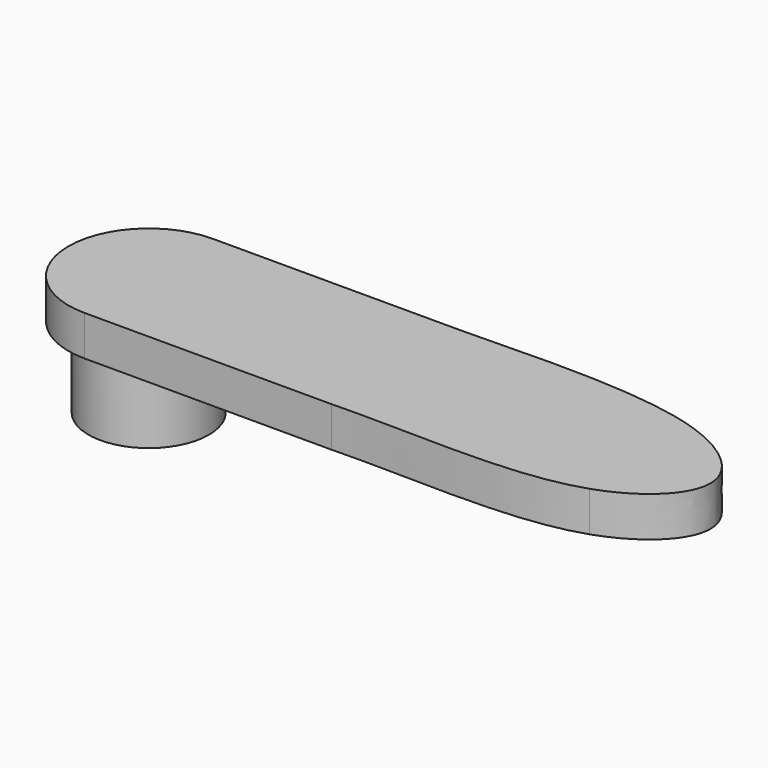
from build123d import *

# Parameters (mm, degrees)
F1_R     = 9.525
F2_DEPTH = 12.7
F3_DEPTH = 6.35
F5_DEPTH = 6.35


with BuildPart() as f2:
    # F1 (on Top) → F2 (new body)
    with BuildSketch(Plane.XY):
        Circle(F1_R)
    extrude(amount=F2_DEPTH)

    # F0 (on Top) → F3 (cut)
    with BuildSketch(Plane.XY):
        with BuildLine():
            Line((-1.27, 3.048), (-1.27, -3.048))
            ThreePointArc((-1.27, -3.048), (3.302, 0), (-1.27, 3.048))
        make_face()
    extrude(amount=F3_DEPTH, mode=Mode.SUBTRACT)

    # F4 (on face) → F5 (join)
    with BuildSketch(Plane.XY.offset(12.7)):
        with BuildLine():
            add(Edge.make_bspline(
                [(78.1465370953, 10.1726271266), (84.5997905756, 7.9514466281), (93.2222153183, 0.1048863469), (84.5556786618, -8.2715012229), (78.1465370953, -10.4653070771)],
                knots=[0.309244335, 0.309244335, 0.309244335, 0.309244335, 0.4993866301, 0.6908259731, 0.6908259731, 0.6908259731, 0.6908259731], degree=3))
            Line((78.1465370953, 10.1726271266), (78.1465370953, -10.4653070771))
        make_face()
        with BuildLine():
            ThreePointArc((0, 12.7), (8.9802561211, 8.9802561211), (12.7, 0))
            ThreePointArc((12.7, 0), (8.9802561211, -8.9802561211), (0, -12.7))
            Line((0, -12.7), (39.0732685476, -12.7))
            add(Edge.make_bspline(
                [(78.1465370953, -10.4653070771), (67.795790613, -14.0082976621), (52.0691349766, -12.3123618235), (39.0732685476, -12.7)],
                knots=[0.6908259731, 0.6908259731, 0.6908259731, 0.6908259731, 1, 1, 1, 1], degree=3))
            Line((78.1465370953, -10.4653070771), (78.1465370953, 10.1726271266))
            add(Edge.make_bspline(
                [(39.0732685476, 12.7), (51.4508770451, 12.9306208488), (67.6510706324, 13.7851189498), (78.1465370953, 10.1726271266)],
                knots=[0, 0, 0, 0, 0.309244335, 0.309244335, 0.309244335, 0.309244335], degree=3))
            Line((39.0732685476, 12.7), (0, 12.7))
        make_face()
        with BuildLine():
            Line((0, 9.525), (0, 12.7))
            ThreePointArc((0, 12.7), (-12.7, 0), (0, -12.7))
            Line((0, -12.7), (0, -9.525))
            ThreePointArc((0, -9.525), (-9.525, 0), (0, 9.525))
        make_face()
        with BuildLine():
            ThreePointArc((0, -12.7), (8.9802561211, -8.9802561211), (12.7, 0))
            ThreePointArc((12.7, 0), (8.9802561211, 8.9802561211), (0, 12.7))
            Line((0, 12.7), (0, 9.525))
            ThreePointArc((0, 9.525), (6.7351920908, 6.7351920908), (9.525, 0))
            ThreePointArc((9.525, 0), (6.7351920908, -6.7351920908), (0, -9.525))
            Line((0, -9.525), (0, -12.7))
        make_face()
        with BuildLine():
            ThreePointArc((9.525, 0), (6.7351920908, 6.7351920908), (0, 9.525))
            Line((0, 9.525), (0, -9.525))
            ThreePointArc((0, -9.525), (6.7351920908, -6.7351920908), (9.525, 0))
        make_face()
        with BuildLine():
            Line((0, -9.525), (0, 9.525))
            ThreePointArc((0, 9.525), (-9.525, 0), (0, -9.525))
        make_face()
    extrude(amount=F5_DEPTH)


solid = f2.part
